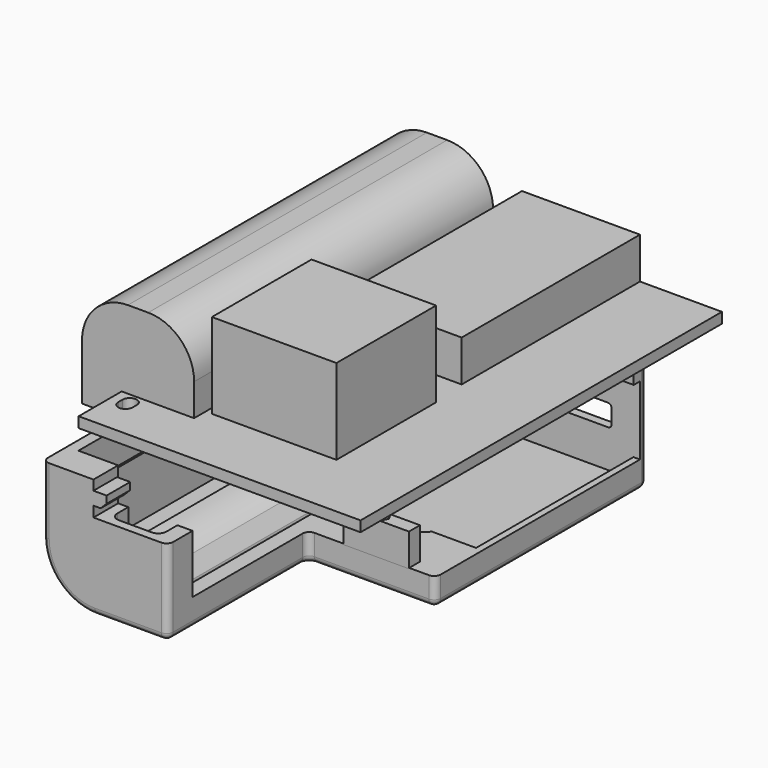
from build123d import *

# Parameters (mm, degrees)
SKETCH004_W          = 43
SKETCH004_H          = 68.9
PAD001_DEPTH         = 1.6
SKETCH005_W          = 18
SKETCH005_H          = 34
PAD002_DEPTH         = 6.3
SKETCH006_W          = 17.1
SKETCH006_H          = 57
PAD003_DEPTH         = 15.5
FILLET_R             = 7
POCKET003_DEPTH      = 3.601
SKETCH010_W          = 19
SKETCH010_H          = 19
PAD004_DEPTH         = 13
PAD_DEPTH            = 18.2
SKETCH003_W          = 19.45
SKETCH003_H          = 39
POCKET_DEPTH         = 14.001
POCKET001_DEPTH      = 5.101
POCKET002_DEPTH      = 57.6
SKETCH011_W          = 5.3
SKETCH011_H          = 2.3
POCKET004_DEPTH      = 5
PAD005_DEPTH         = 2.1
PAD005_DEPTH_BACK    = -10
SKETCH014_W          = 10
SKETCH014_H          = 2.1
PAD006_DEPTH         = 5
CHAMFER001_SIZE      = 0.5
POCKET005_DEPTH      = 5
POCKET006_DEPTH      = 100
POCKET006_DEPTH_BACK = -100
FILLET001_R          = 1
SKETCH017_W          = 4
SKETCH017_H          = 1.2
SKETCH017_W_2        = 3.5
SKETCH017_H_2        = 4.5
SKETCH017_H_3        = 3.3
PAD008_DEPTH         = 2
CHAMFER_SIZE         = 0.9
POCKET007_DEPTH      = 11.9


with BuildPart() as body001:
    # Sketch004 → Pad001 (new body)
    with BuildSketch(Plane.XY):
        with Locations((0, -34.45)):
            Rectangle(SKETCH004_W, SKETCH004_H)
    extrude(amount=-PAD001_DEPTH)

    # Sketch005 → Pad002 (join)
    with BuildSketch(Plane.XY):
        with Locations((0, -17)):
            Rectangle(SKETCH005_W, SKETCH005_H)
    extrude(amount=PAD002_DEPTH)

    # Sketch006 → Pad003 (join)
    with BuildSketch(Plane.XY.offset(-3.6)):
        with Locations((-19, -32.2)):
            Rectangle(SKETCH006_W, SKETCH006_H)
    extrude(amount=PAD003_DEPTH)

    # Fillet
    fillet_edges = [body001.edges().sort_by_distance(p)[0] for p in [
        (-10.45, -32.2, 11.9),
        (-27.55, -32.2, 11.9),
    ]]
    fillet(fillet_edges, radius=FILLET_R)

    # Sketch009 → Pocket003 (cut, through all)
    with BuildSketch(Plane.XY):
        with BuildLine():
            ThreePointArc((-20.1, -63.1), (-19, -64.2), (-17.9, -63.1))
            Line((-17.9, -63.1), (-17.9, -62.3))
            ThreePointArc((-17.9, -62.3), (-19, -61.2), (-20.1, -62.3))
            Line((-20.1, -62.3), (-20.1, -63.1))
        make_face()
        with BuildLine():
            ThreePointArc((-17.9, -1.3), (-19, -0.2), (-20.1, -1.3))
            Line((-20.1, -1.3), (-20.1, -2.1))
            ThreePointArc((-20.1, -2.1), (-19, -3.2), (-17.9, -2.1))
            Line((-17.9, -2.1), (-17.9, -1.3))
        make_face()
    extrude(amount=-POCKET003_DEPTH, mode=Mode.SUBTRACT)

    # Sketch010 → Pad004 (join)
    with BuildSketch(Plane.XY):
        with Locations((0, -49)):
            Rectangle(SKETCH010_W, SKETCH010_H)
    extrude(amount=PAD004_DEPTH)


with BuildPart() as body:
    # Sketch002 → Pad (new body)
    with BuildSketch(Plane.XY.offset(13.1)):
        Polygon((9, 0), (9, 1.3), (-23.5, 1.3), (-23.5, -1.7), (-29.55, -1.7), (-29.55, -65.7), (-10.45, -65.7), (-10.45, -39), (9, -39), align=None)
    extrude(amount=-PAD_DEPTH)

    # Sketch003 → Pocket (cut, through all)
    with BuildSketch(Plane.XY.offset(8.9)):
        with Locations((-0.725, -19.5)):
            Rectangle(SKETCH003_W, SKETCH003_H)
    extrude(amount=-POCKET_DEPTH, mode=Mode.SUBTRACT)

    # Sketch007 → Pocket001 (cut, through all)
    with BuildSketch(Plane.XY):
        Polygon((21.5, 0), (-21.8, 0), (-21.8, -3.4), (-27.85, -3.4), (-27.85, -61), (-21.8, -61), (-21.8, -68.9), (21.5, -68.9), align=None)
    extrude(amount=-POCKET001_DEPTH, mode=Mode.SUBTRACT)

    # Sketch008 → Pocket002 (cut)
    with BuildSketch(Plane.XZ.offset(3.4)):
        with BuildLine():
            ThreePointArc((-12.786305, 8.9), (-14.580794, 10.759754), (-16.9, 11.9))
            Line((-21.1, 11.9), (-16.9, 11.9))
            ThreePointArc((-21.1, 11.9), (-23.419206, 10.759754), (-25.213695, 8.9))
            Line((-25.213695, 8.9), (-27.55, 8.9))
            Line((-27.55, 8.9), (-27.55, -3.6))
            Line((-27.55, -3.6), (-10.45, -3.6))
            Line((-10.45, 8.9), (-10.45, -3.6))
            Line((-12.786305, 8.9), (-10.45, 8.9))
        make_face()
    extrude(amount=POCKET002_DEPTH, mode=Mode.SUBTRACT)

    # Sketch011 → Pocket004 (cut)
    with BuildSketch(Plane.XZ):
        with Locations((0, -3.95)):
            Rectangle(SKETCH011_W, SKETCH011_H)
        with BuildLine():
            Line((-4.65, 3.35), (-4.65, 5.65))
            ThreePointArc((-4.15, 6.15), (-4.503553, 6.003553), (-4.65, 5.65))
            Line((-4.15, 6.15), (4.15, 6.15))
            ThreePointArc((4.65, 5.65), (4.503553, 6.003553), (4.15, 6.15))
            Line((4.65, 5.65), (4.65, 3.35))
            ThreePointArc((4.15, 2.85), (4.503553, 2.996447), (4.65, 3.35))
            Line((4.15, 2.85), (-4.15, 2.85))
            ThreePointArc((-4.65, 3.35), (-4.503553, 2.996447), (-4.15, 2.85))
        make_face()
    extrude(amount=-POCKET004_DEPTH, mode=Mode.SUBTRACT)

    # Sketch012 → Pad005 (join, two sides)
    with BuildSketch(Plane.XY) as pad005_sk:
        Polygon((1.1, -38), (0.55, -37.047372), (-0.55, -37.047372), (-1.1, -38), (-0.55, -38.952628), (0.55, -38.952628), align=None)
    extrude(amount=-PAD005_DEPTH)
    extrude(pad005_sk.sketch, amount=-PAD005_DEPTH_BACK)

    # Sketch014 → Pad006 (join)
    with BuildSketch(Plane.XY.offset(4)):
        with Locations((0, -38)):
            Rectangle(SKETCH014_W, SKETCH014_H)
    extrude(amount=PAD006_DEPTH)

    # Chamfer001
    chamfer001_edges = [body.edges().sort_by_distance(p)[0] for p in [
        (0.825, -37.523686, -2.1),
        (0, -37.047372, -2.1),
        (-0.825, -37.523686, -2.1),
        (-0.825, -38.476314, -2.1),
        (0, -38.952628, -2.1),
        (0.825, -38.476314, -2.1),
    ]]
    chamfer(chamfer001_edges, length=CHAMFER001_SIZE)

    # Sketch013 → Pocket005 (cut)
    with BuildSketch(Plane.XY):
        with BuildLine():
            Line((-20.25, -62.3), (-20.25, -63.1))
            ThreePointArc((-20.25, -63.1), (-19.883883, -63.983883), (-19, -64.35))
            Line((-14, -64.35), (-19, -64.35))
            ThreePointArc((-14, -64.35), (-13.116117, -63.983883), (-12.75, -63.1))
            Line((-12.75, -1.3), (-12.75, -63.1))
            ThreePointArc((-12.75, -1.3), (-13.116117, -0.416117), (-14, -0.05))
            Line((-19, -0.05), (-14, -0.05))
            ThreePointArc((-19, -0.05), (-19.883883, -0.416117), (-20.25, -1.3))
            Line((-20.25, -1.3), (-20.25, -2.1))
            Line((-20.25, -2.1), (-20.25, -62.3))
        make_face()
    extrude(amount=POCKET005_DEPTH, mode=Mode.SUBTRACT)

    # Sketch016 → Pocket006 (cut, two sides)
    with BuildSketch(Plane.XZ) as pocket006_sk:
        with BuildLine():
            ThreePointArc((-21.55, 13.1), (-27.206854, 10.756854), (-29.55, 5.1))
            Line((-29.55, 5.1), (-32.473244, 5.1))
            Line((-32.473244, 5.1), (-32.473244, 16.532589))
            Line((-32.473244, 16.532589), (-21.55, 16.532589))
            Line((-21.55, 16.532589), (-21.55, 13.1))
        make_face()
    extrude(amount=-POCKET006_DEPTH, mode=Mode.SUBTRACT)
    extrude(pocket006_sk.sketch, amount=-POCKET006_DEPTH_BACK, mode=Mode.SUBTRACT)

    # Fillet001
    fillet001_edges = [body.edges().sort_by_distance(p)[0] for p in [
        (9, -19.5, 13.1),
        (-0.725, -39, 13.1),
        (-10.45, -52.35, 13.1),
        (-16, -65.7, 13.1),
        (-21.55, -32.2, 13.1),
        (-6.275, 1.3, 13.1),
        (9, 0.65, 13.1),
        (-22.532436, 1.3, 13.039447),
        (-23.5, 1.3, 3.879352),
        (-23.5, -0.2, 12.858705),
        (-23.5, -1.7, 3.879352),
        (-29.55, -1.7, 0),
        (-27.858724, -1.7, 10.01935),
        (-29.55, -65.7, 0),
        (-27.206854, -65.7, 10.756854),
        (-10.45, -65.7, 6.55),
        (-10.45, -39, 11),
        (9, -39, 11),
        (9, 1.3, 4),
    ]]
    fillet(fillet001_edges, radius=FILLET001_R)

    # Sketch017 → Pad008 (join)
    with BuildSketch(Plane.XY.offset(-1.6)):
        with Locations((7, -0.6)):
            Rectangle(SKETCH017_W, SKETCH017_H)
        with Locations((-21.55, -63.45)):
            Rectangle(SKETCH017_W_2, SKETCH017_H_2)
        with Locations((-21.55, -1.65)):
            Rectangle(SKETCH017_W_2, SKETCH017_H_3)
    extrude(amount=-PAD008_DEPTH)

    # Chamfer
    chamfer_edges = [body.edges().sort_by_distance(p)[0] for p in [
        (-19.8, -1.65, -1.6),
        (-19.8, -63.45, -1.6),
    ]]
    chamfer(chamfer_edges, length=CHAMFER_SIZE)

    # Sketch018 → Pocket007 (cut)
    with BuildSketch(Plane.XY):
        with BuildLine():
            Line((8, 0), (-11.5, 0))
            Line((-11.5, 0), (-11.5, -30))
            Line((-11.5, -30), (-4.75, -30))
            ThreePointArc((-4.75, -30), (-1.75, -31.605551), (1.25, -30))
            Line((1.25, -30), (8, -30))
            Line((8, -30), (8, 0))
        make_face()
    extrude(amount=POCKET007_DEPTH, mode=Mode.SUBTRACT)


with BuildPart() as part_mirroring:
    # Part__Mirroring: instance of Body
    add(body.part.mirror(Plane(origin=(0, 0, 0), x_dir=(0, 1, 0), z_dir=(0, 0, 1))))


with BuildPart() as part_mirroring_1:
    # Part__Mirroring placement: moved
    add(part_mirroring.part.moved(Location((0, 0, -15))))


solid = Compound([body001.part, part_mirroring_1.part])
